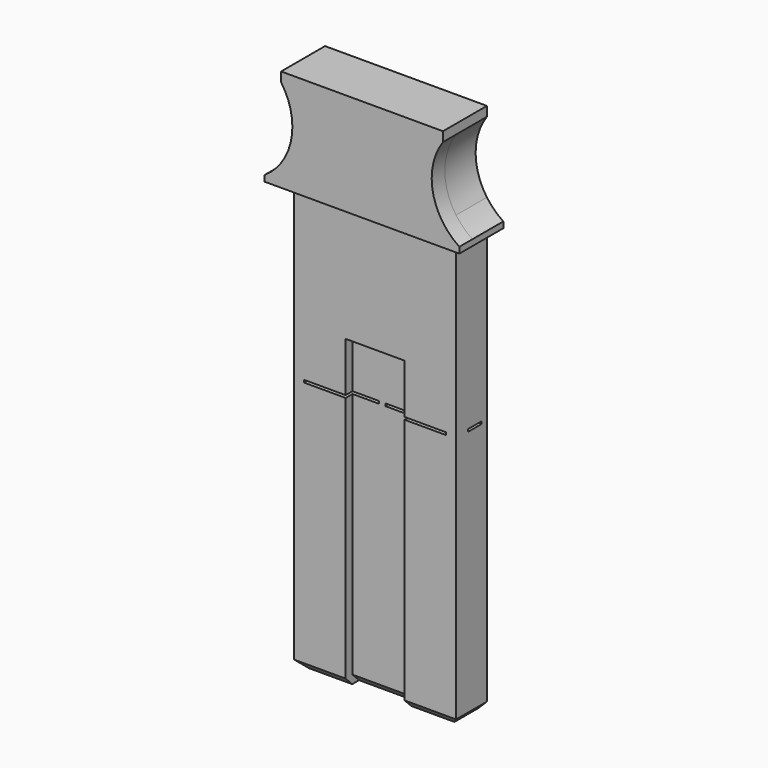
from build123d import *

# Parameters (mm, degrees)
F0_W     = 1.2
F0_H     = 0.3
F1_DEPTH = 4.7
F3_DEPTH = 1.05
F6_DEPTH = 2
F7_SIZE  = 1
F8_W     = 2.05
F8_H     = 0.3
F9_DEPTH = 125


with BuildPart() as f1:
    # F0 (on Front) → F1 (new body)
    with BuildSketch(Plane.XZ):
        with BuildLine():
            Line((0, 31.15), (0, 0))
            Line((0, 0), (19.75, 0))
            Line((19.75, 0), (19.75, 31.15))
            Line((19.75, 31.15), (18.55, 31.15))
            Line((18.55, 31.15), (10.275, 31.15))
            Line((10.275, 31.15), (10.275, 31.45))
            Line((10.275, 31.45), (18.55, 31.45))
            Line((18.55, 31.45), (19.75, 31.45))
            Line((19.75, 31.45), (19.75, 52.5))
            Line((19.75, 52.5), (19.75, 55.1716775767))
            ThreePointArc((19.75, 55.1716775767), (18.375, 59.5), (19.75, 63.8283224233))
            Line((19.75, 63.8283224233), (19.75, 65))
            Line((19.75, 65), (0, 65))
            Line((0, 65), (0, 63.8283224233))
            ThreePointArc((0, 63.8283224233), (1.0229892277, 61.7707377656), (1.375, 59.5))
            ThreePointArc((1.375, 59.5), (1.0229892277, 57.2292622344), (0, 55.1716775767))
            Line((0, 55.1716775767), (0, 52.5))
            Line((0, 52.5), (0, 31.45))
            Line((0, 31.45), (1.2, 31.45))
            Line((1.2, 31.45), (9.475, 31.45))
            Line((9.475, 31.45), (9.475, 31.15))
            Line((9.475, 31.15), (1.2, 31.15))
            Line((1.2, 31.15), (0, 31.15))
        make_face()
        with BuildLine():
            Line((-2, 52.5), (0, 52.5))
            Line((0, 52.5), (0, 55.1716775767))
            ThreePointArc((0, 55.1716775767), (-0.9094386331, 54.1103878035), (-2, 53.2362650918))
            Line((-2, 53.2362650918), (-2, 52.5))
        make_face()
        with BuildLine():
            Line((19.75, 55.1716775767), (19.75, 52.5))
            Line((19.75, 52.5), (21.75, 52.5))
            Line((21.75, 52.5), (21.75, 53.2362650918))
            ThreePointArc((21.75, 53.2362650918), (20.6594386331, 54.1103878035), (19.75, 55.1716775767))
        make_face()
        with Locations((0.6, 31.3)):
            Rectangle(F0_W, F0_H)
        with Locations((19.15, 31.3)):
            Rectangle(F0_W, F0_H)
    extrude(amount=F1_DEPTH)

    # F2 (on face) → F3 (cut)
    with BuildSketch(Plane.XZ.offset(4.7)):
        Polygon((13.475, 37.5), (6.275, 37.5), (6.275, 2.2), (6.275, 0), (13.475, 0), (13.475, 2.2), align=None)
    extrude(amount=-F3_DEPTH, mode=Mode.SUBTRACT)

    # F5 (on face) → F6 (join)
    with BuildSketch(Plane.XZ.offset(4.7)):
        with BuildLine():
            Line((-2, 52.5), (0, 52.5))
            Line((0, 52.5), (19.75, 52.5))
            Line((19.75, 52.5), (21.75, 52.5))
            Line((21.75, 52.5), (21.75, 53.2362650918))
            ThreePointArc((21.75, 53.2362650918), (18.5052276407, 58.1084342015), (19.75, 63.8283224233))
            Line((19.75, 63.8283224233), (19.75, 65))
            Line((19.75, 65), (0, 65))
            Line((0, 65), (0, 63.8283224233))
            ThreePointArc((0, 63.8283224233), (1.2447723593, 58.1084342015), (-2, 53.2362650918))
            Line((-2, 53.2362650918), (-2, 52.5))
        make_face()
    extrude(amount=F6_DEPTH)

    # F7
    f7_edges = [f1.edges().sort_by_distance(p)[0] for p in [
        (0, -2.35, 0),
        (19.75, -2.35, 0),
        (3.1375, -4.7, 0),
        (16.6125, -4.7, 0),
        (9.875, -3.65, 0),
    ]]
    chamfer(f7_edges, length=F7_SIZE)

    # F8 (on face) → F9 (cut, symmetric)
    with BuildSketch(Plane(origin=(9.475, 0, 0), x_dir=(0, -1, 0), z_dir=(-1, 0, 0))):
        with Locations((1.825, 31.3)):
            Rectangle(F8_W, F8_H)
    extrude(amount=F9_DEPTH, both=True, mode=Mode.SUBTRACT)


solid = f1.part
